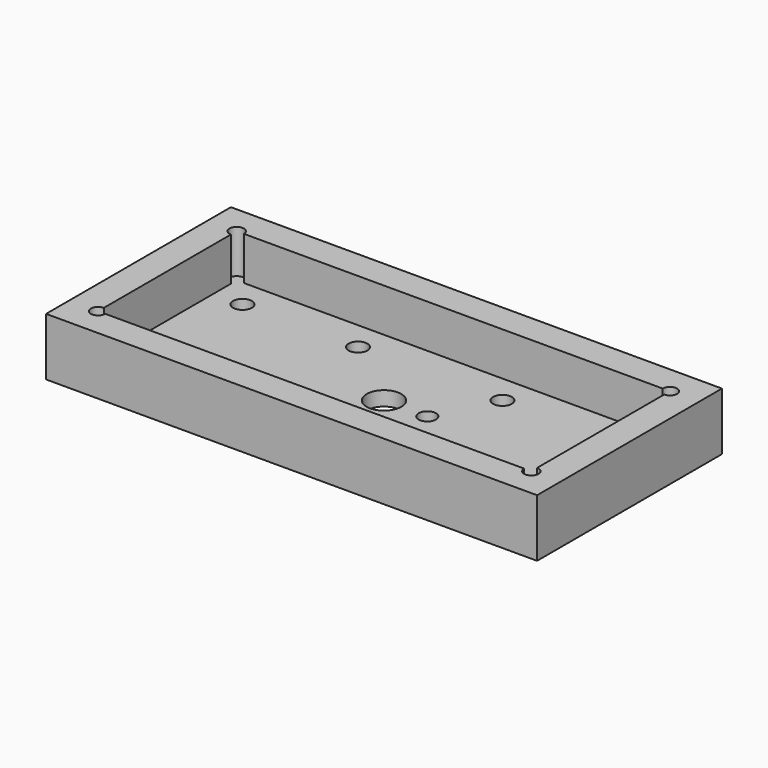
from build123d import *

# Parameters (mm, degrees)
F0_W     = 170
F0_H     = 80
F1_DEPTH = 10
F2_W     = 150
F2_H     = 60
F3_DEPTH = 5
F5_DEPTH = 5
F6_R     = 6
F7_DEPTH = 5
F8_DEPTH = 10


with BuildPart() as f1:
    # F0 (on Top) → F1 (new body)
    with BuildSketch(Plane.XY):
        Rectangle(F0_W, F0_H)
    extrude(amount=F1_DEPTH)

    # F2 (on face) → F3 (cut)
    with BuildSketch(Plane.XY.offset(10)):
        Rectangle(F2_W, F2_H)
    extrude(amount=-F3_DEPTH, mode=Mode.SUBTRACT)

    # F4 (on face) → F5 (cut)
    with BuildSketch(Plane.XY.offset(10)):
        with BuildLine():
            ThreePointArc((75, 27.5), (76.767766953, 28.232233047), (77.5, 30))
            ThreePointArc((77.5, 30), (75, 32.5), (72.5, 30))
            Line((72.5, 30), (75, 30))
            Line((75, 30), (75, 27.5))
        make_face()
        with BuildLine():
            Line((75, 30), (72.5, 30))
            ThreePointArc((72.5, 30), (73.232233047, 28.232233047), (75, 27.5))
            Line((75, 27.5), (75, 30))
        make_face()
        with BuildLine():
            ThreePointArc((72.5, -30), (75, -32.5), (77.5, -30))
            ThreePointArc((77.5, -30), (76.767766953, -28.232233047), (75, -27.5))
            Line((75, -27.5), (75, -30))
            Line((75, -30), (72.5, -30))
        make_face()
        with BuildLine():
            Line((75, -30), (75, -27.5))
            ThreePointArc((75, -27.5), (73.232233047, -28.232233047), (72.5, -30))
            Line((72.5, -30), (75, -30))
        make_face()
        with BuildLine():
            Line((-75, 30), (-72.5, 30))
            ThreePointArc((-72.5, 30), (-76.767766953, 31.767766953), (-75, 27.5))
            Line((-75, 27.5), (-75, 30))
        make_face()
        with BuildLine():
            ThreePointArc((-75, 27.5), (-73.232233047, 28.232233047), (-72.5, 30))
            Line((-72.5, 30), (-75, 30))
            Line((-75, 30), (-75, 27.5))
        make_face()
        with BuildLine():
            Line((-75, -30), (-72.5, -30))
            ThreePointArc((-72.5, -30), (-73.232233047, -28.232233047), (-75, -27.5))
            Line((-75, -27.5), (-75, -30))
        make_face()
        with BuildLine():
            ThreePointArc((-75, -27.5), (-76.767766953, -31.767766953), (-72.5, -30))
            Line((-72.5, -30), (-75, -30))
            Line((-75, -30), (-75, -27.5))
        make_face()
    extrude(amount=-F5_DEPTH, mode=Mode.SUBTRACT)

    # F6 (on face) → F7 (cut)
    with BuildSketch(Plane.XY.offset(5)):
        with BuildLine():
            Line((-65, -20), (-61.75, -20))
            ThreePointArc((-61.75, -20), (-62.7019029611, -17.7019029611), (-65, -16.75))
            Line((-65, -16.75), (-65, -20))
        make_face()
        with BuildLine():
            Line((65, 20), (65, 16.75))
            ThreePointArc((65, 16.75), (67.2980970389, 17.7019029611), (68.25, 20))
            ThreePointArc((68.25, 20), (65, 23.25), (61.75, 20))
            Line((61.75, 20), (65, 20))
        make_face()
        with BuildLine():
            Line((28.25, 20), (21.75, 20))
            ThreePointArc((21.75, 20), (25, 16.75), (28.25, 20))
        make_face()
        with BuildLine():
            ThreePointArc((-21.75, -20), (-25, -16.75), (-28.25, -20))
            Line((-28.25, -20), (-21.75, -20))
        make_face()
        with BuildLine():
            ThreePointArc((-21.75, 20), (-25, 23.25), (-28.25, 20))
            Line((-28.25, 20), (-21.75, 20))
        make_face()
        with BuildLine():
            ThreePointArc((-61.75, 20), (-67.2980970389, 22.2980970389), (-65, 16.75))
            Line((-65, 16.75), (-65, 20))
            Line((-65, 20), (-61.75, 20))
        make_face()
        with BuildLine():
            ThreePointArc((-65, -16.75), (-67.2980970389, -22.2980970389), (-61.75, -20))
            Line((-61.75, -20), (-65, -20))
            Line((-65, -20), (-65, -16.75))
        make_face()
        with BuildLine():
            ThreePointArc((28.25, -20), (25, -16.75), (21.75, -20))
            Line((21.75, -20), (28.25, -20))
        make_face()
        with BuildLine():
            Line((-65, 20), (-65, 16.75))
            ThreePointArc((-65, 16.75), (-62.7019029611, 17.7019029611), (-61.75, 20))
            Line((-61.75, 20), (-65, 20))
        make_face()
        with BuildLine():
            Line((-21.75, -20), (-28.25, -20))
            ThreePointArc((-28.25, -20), (-25, -23.25), (-21.75, -20))
        make_face()
        with BuildLine():
            Line((-21.75, 20), (-28.25, 20))
            ThreePointArc((-28.25, 20), (-25, 16.75), (-21.75, 20))
        make_face()
        with BuildLine():
            Line((65, -20), (61.75, -20))
            ThreePointArc((61.75, -20), (65, -23.25), (68.25, -20))
            ThreePointArc((68.25, -20), (67.2980970389, -17.7019029611), (65, -16.75))
            Line((65, -16.75), (65, -20))
        make_face()
        with BuildLine():
            ThreePointArc((65, -16.75), (62.7019029611, -17.7019029611), (61.75, -20))
            Line((61.75, -20), (65, -20))
            Line((65, -20), (65, -16.75))
        make_face()
        with BuildLine():
            ThreePointArc((61.75, 20), (62.7019029611, 17.7019029611), (65, 16.75))
            Line((65, 16.75), (65, 20))
            Line((65, 20), (61.75, 20))
        make_face()
        with BuildLine():
            Line((28.25, -20), (21.75, -20))
            ThreePointArc((21.75, -20), (25, -23.25), (28.25, -20))
        make_face()
        with BuildLine():
            ThreePointArc((28.25, 20), (25, 23.25), (21.75, 20))
            Line((21.75, 20), (28.25, 20))
        make_face()
        Circle(F6_R)
        with BuildLine():
            ThreePointArc((18, 0), (15, 3), (12, 0))
            ThreePointArc((12, 0), (15, -3), (18, 0))
        make_face()
    extrude(amount=-F7_DEPTH, mode=Mode.SUBTRACT)

    # F8 (add): a face of the model
    f8_faces = [f1.faces().sort_by_distance(p)[0] for p in [
        (0, -38.1211705772, 10),
    ]]
    extrude(f8_faces, amount=F8_DEPTH)


solid = f1.part
